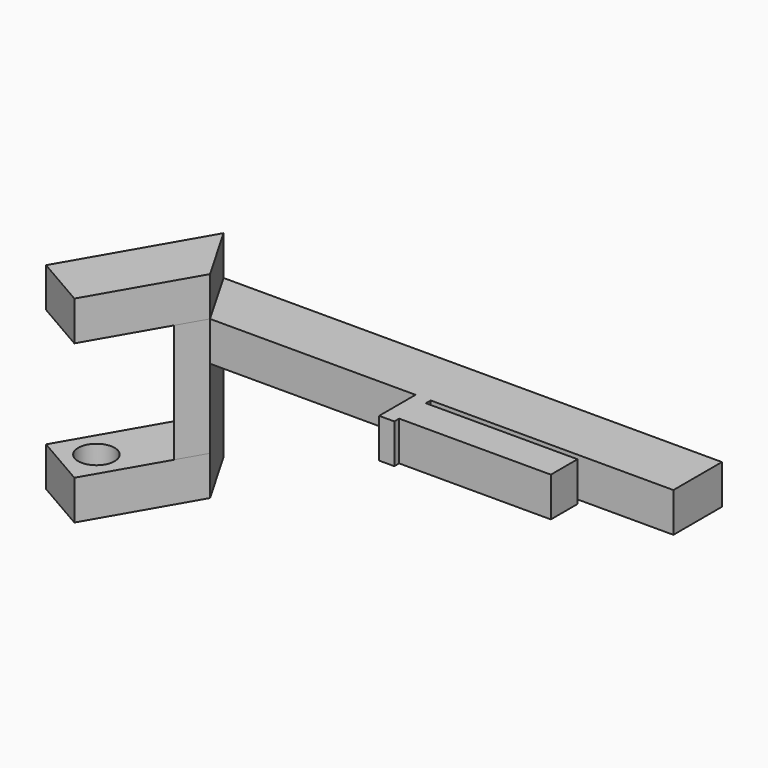
from build123d import *

# Parameters (mm, degrees)
PAD_DEPTH    = 13
PAD001_DEPTH = 13
PAD002_DEPTH = 26
PAD003_DEPTH = 13
SKETCH004_R  = 6
POCKET_DEPTH = 54


with BuildPart() as part:
    # Sketch → Pad (new body)
    with BuildSketch(Plane.XY):
        Polygon((-84.297005, 0), (80.002995, 0), (80.002995, -20), (0, -20), (0, -22), (50, -22), (50, -33), (0, -33), (0, -35), (-5, -35), (-5, -20), (-72.75, -20), (-77.75, -28.660254), (-89.297005, -8.660254), align=None)
    extrude(amount=PAD_DEPTH)

    # Sketch001 (on Face16 of Pad) → Pad001 (join)
    with BuildSketch(Plane.XY.offset(13)):
        Polygon((-84.297005, 0), (-72.75, -20), (-91.5, -52.475953), (-108.820508, -42.475953), align=None)
    extrude(amount=PAD001_DEPTH)

    # Sketch002 (on Face4 of Pad001) → Pad002 (join)
    with BuildSketch(Plane(origin=(0, 0, 0), x_dir=(1, 0, 0), z_dir=(0, 0, -1))):
        Polygon((-77.75, 28.660254), (-89.297005, 8.660254), (-84.297005, 0), (-72.75, 20), align=None)
    extrude(amount=PAD002_DEPTH)

    # Sketch003 (on Face23 of Pad002) → Pad003 (join)
    with BuildSketch(Plane(origin=(0, 0, -26), x_dir=(1, 0, 0), z_dir=(0, 0, -1))):
        Polygon((-72.75, 20), (-91.5, 52.475953), (-108.820508, 42.475953), (-84.297005, 0), align=None)
    extrude(amount=PAD003_DEPTH)

    # Sketch004 (on Face31 of Pad003) → Pocket (cut)
    with BuildSketch(Plane(origin=(0, 0, -39), x_dir=(1, 0, 0), z_dir=(0, 0, -1))):
        with Locations((-95.160254, 38.815699)):
            Circle(SKETCH004_R)
    extrude(amount=-POCKET_DEPTH, mode=Mode.SUBTRACT)


solid = part.part
